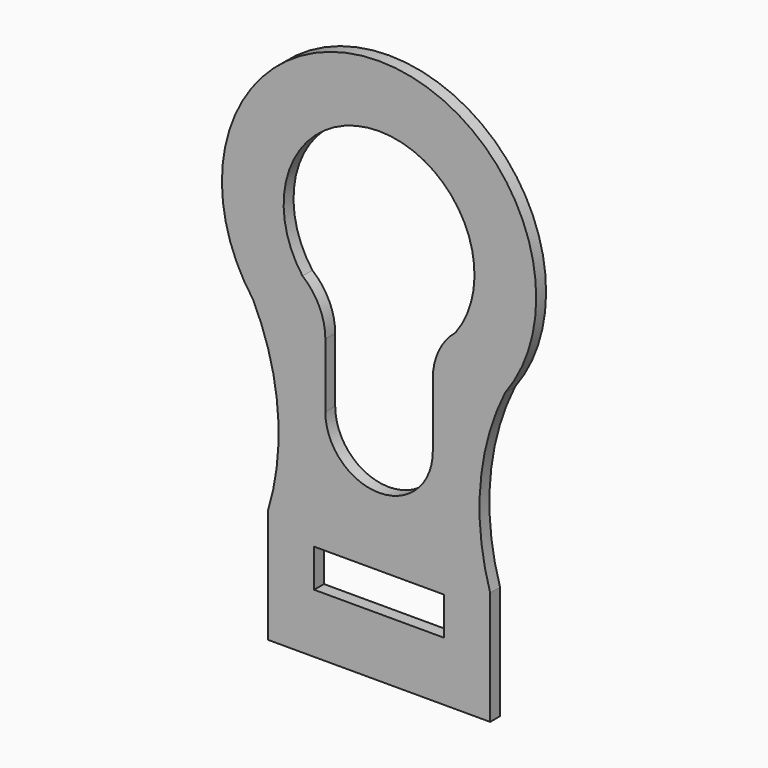
from build123d import *

# Parameters (mm, degrees)
F0_W     = 66.823914
F0_H     = 19.534886
F1_DEPTH = 3.175


with BuildPart() as f1:
    # F0 (on Front) → F1 (new body, symmetric)
    with BuildSketch(Plane.XZ):
        with BuildLine():
            Line((-57.15, -246.196457), (-57.15, -304.616457))
            Line((-57.15, -304.616457), (0, -304.616457))
            Line((0, -304.616457), (57.15, -304.616457))
            Line((57.15, -304.616457), (57.15, -246.196457))
            ThreePointArc((57.15, -246.196457), (52.098746, -198.883629), (64.814391, -153.032444))
            ThreePointArc((64.814391, -153.032444), (0, -23.878204), (-64.814391, -153.032444))
            ThreePointArc((-64.814391, -153.032444), (-52.098746, -198.883629), (-57.15, -246.196457))
        make_face()
        with Locations((0, -264.439464)):
            Rectangle(F0_W, F0_H, mode=Mode.SUBTRACT)
        with BuildLine():
            ThreePointArc((-39.358547, -134.057131), (0, -55.628204), (39.358547, -134.057131))
            ThreePointArc((39.358547, -134.057131), (30.713517, -145.125928), (27.634539, -158.829018))
            Line((27.634539, -158.829018), (27.634539, -191.794127))
            ThreePointArc((27.634539, -191.794127), (0, -219.428666), (-27.634539, -191.794127))
            Line((-27.634539, -191.794127), (-27.634539, -158.829018))
            ThreePointArc((-27.634539, -158.829018), (-30.713517, -145.125928), (-39.358547, -134.057131))
        make_face(mode=Mode.SUBTRACT)
    extrude(amount=F1_DEPTH, both=True)


solid = f1.part
